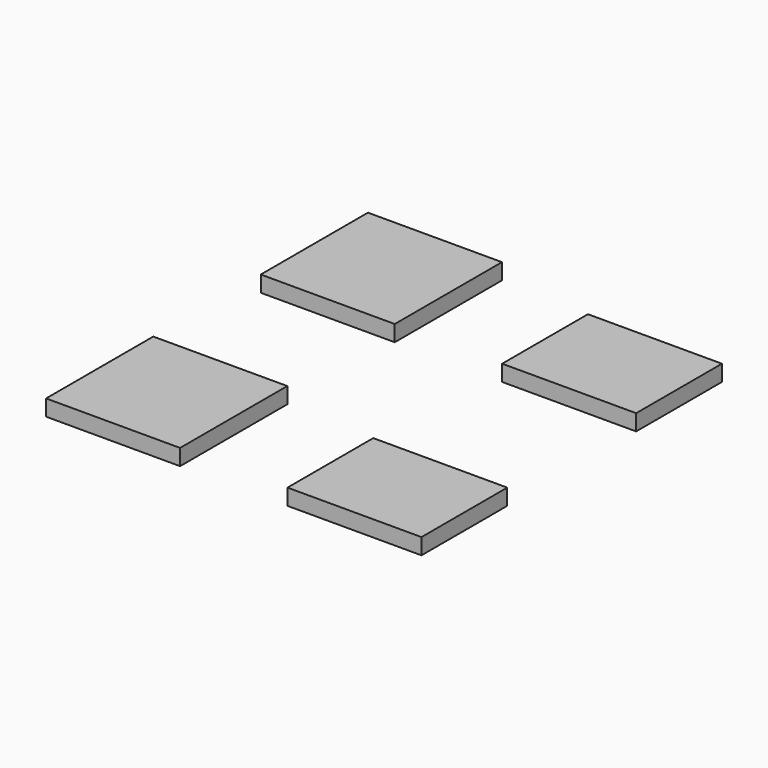
from build123d import *

# Parameters (mm, degrees)
F0_W     = 50
F0_H     = 50
F0_H_2   = 40
F1_DEPTH = 6


with BuildPart() as f1:
    # F0 (on Top) → F1 (new body)
    with BuildSketch(Plane.XY):
        with Locations((-65.201462, 50.065003)):
            Rectangle(F0_W, F0_H)
        with Locations((-65.201462, -50.065003)):
            Rectangle(F0_W, F0_H)
        with Locations((24.881491, 45.065003)):
            Rectangle(F0_W, F0_H_2)
        with Locations((24.881491, -55.065003)):
            Rectangle(F0_W, F0_H_2)
    extrude(amount=F1_DEPTH)


solid = f1.part
